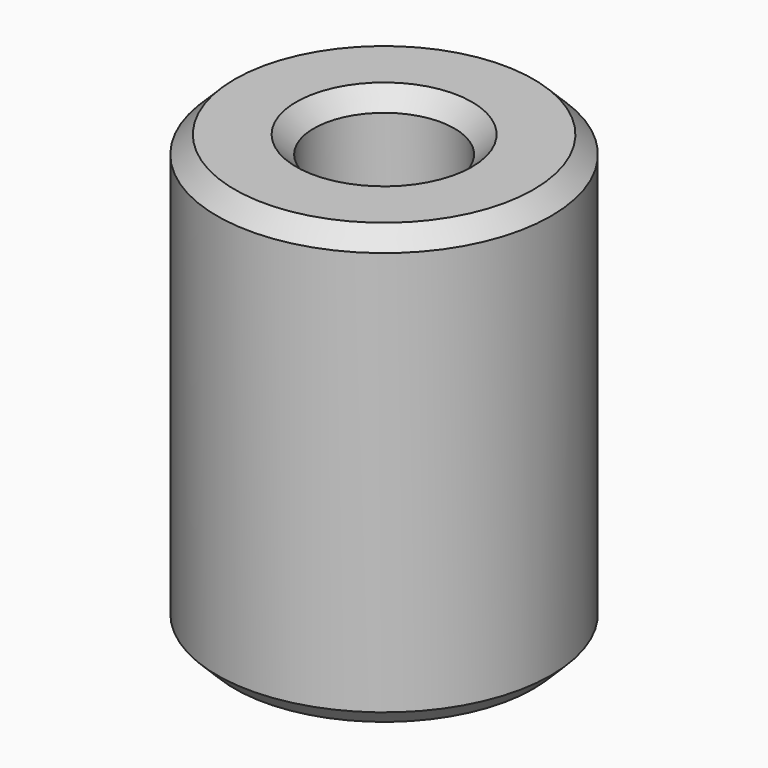
from build123d import *

# Parameters (mm, degrees)
SKETCH_R     = 9.5
SKETCH_R_2   = 2.5
PAD_DEPTH    = 25
SKETCH001_R  = 4
POCKET_DEPTH = 12.5
CHAMFER_SIZE = 1


with BuildPart() as part:
    # Sketch → Pad (new body)
    with BuildSketch(Plane.XY):
        Circle(SKETCH_R)
        Circle(SKETCH_R_2, mode=Mode.SUBTRACT)
    extrude(amount=PAD_DEPTH)

    # Sketch001 (on Face4 of Pad) → Pocket (cut)
    with BuildSketch(Plane.XY.offset(25)):
        Circle(SKETCH001_R)
    extrude(amount=-POCKET_DEPTH, mode=Mode.SUBTRACT)

    # Chamfer
    chamfer_edges = [part.edges().sort_by_distance(p)[0] for p in [
        (-9.5, 0, 25),
        (-4, 0, 25),
        (-9.5, 0, 0),
        (-2.5, 0, 0),
    ]]
    chamfer(chamfer_edges, length=CHAMFER_SIZE)


solid = part.part
